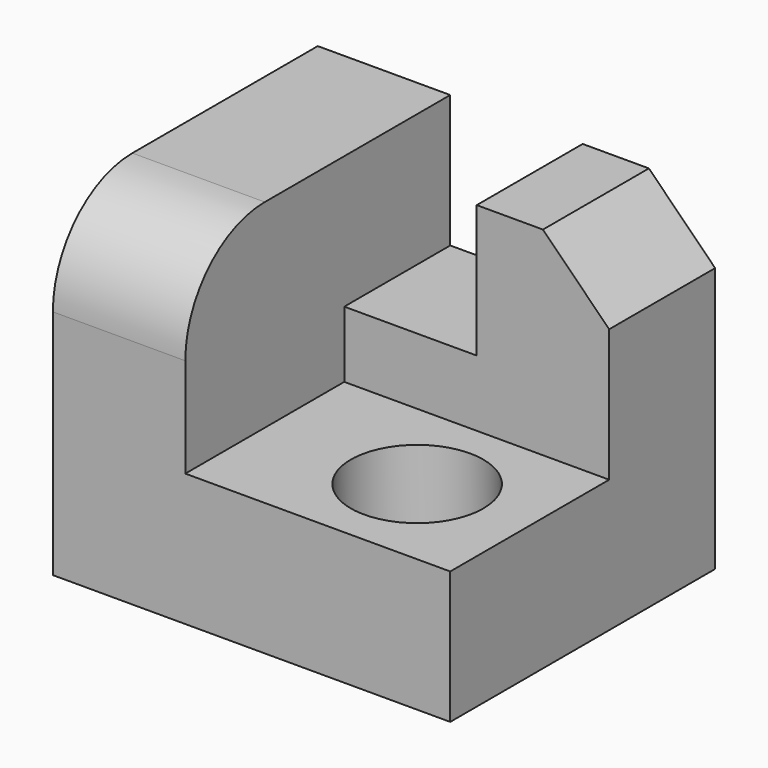
from build123d import *

# Parameters (mm, degrees)
F0_W     = 152.4
F0_H     = 127
F1_DEPTH = 127
F2_W     = 101.6
F2_H     = 76.2
F3_DEPTH = 76.2
F4_R     = 38.1
F5_SIZE  = 25.4
F6_W     = 50.8
F6_H     = 50.8
F7_DEPTH = 50.8
F8_R     = 25.4
F9_DEPTH = 50.801


with BuildPart() as f1:
    # F0 (on Top) → F1 (new body)
    with BuildSketch(Plane.XY):
        with Locations((19.347022, -3.683421)):
            Rectangle(F0_W, F0_H)
    extrude(amount=F1_DEPTH)

    # F2 (on face) → F3 (cut)
    with BuildSketch(Plane.XY.offset(127)):
        with Locations((44.747022, -29.083421)):
            Rectangle(F2_W, F2_H)
    extrude(amount=-F3_DEPTH, mode=Mode.SUBTRACT)

    # F4
    f4_edges = [f1.edges().sort_by_distance(p)[0] for p in [
        (-31.452978, -67.183421, 127),
    ]]
    fillet(f4_edges, radius=F4_R)

    # F5
    f5_edges = [f1.edges().sort_by_distance(p)[0] for p in [
        (95.547022, 34.416579, 127),
    ]]
    chamfer(f5_edges, length=F5_SIZE)

    # F6 (on face) → F7 (cut)
    with BuildSketch(Plane.XY.offset(127)):
        with Locations((19.347022, 34.416579)):
            Rectangle(F6_W, F6_H)
    extrude(amount=-F7_DEPTH, mode=Mode.SUBTRACT)

    # F8 (on face) → F9 (cut, through all)
    with BuildSketch(Plane.XY.offset(50.8)):
        with Locations((52.367022, -29.083421)):
            Circle(F8_R)
    extrude(amount=-F9_DEPTH, mode=Mode.SUBTRACT)


solid = f1.part
